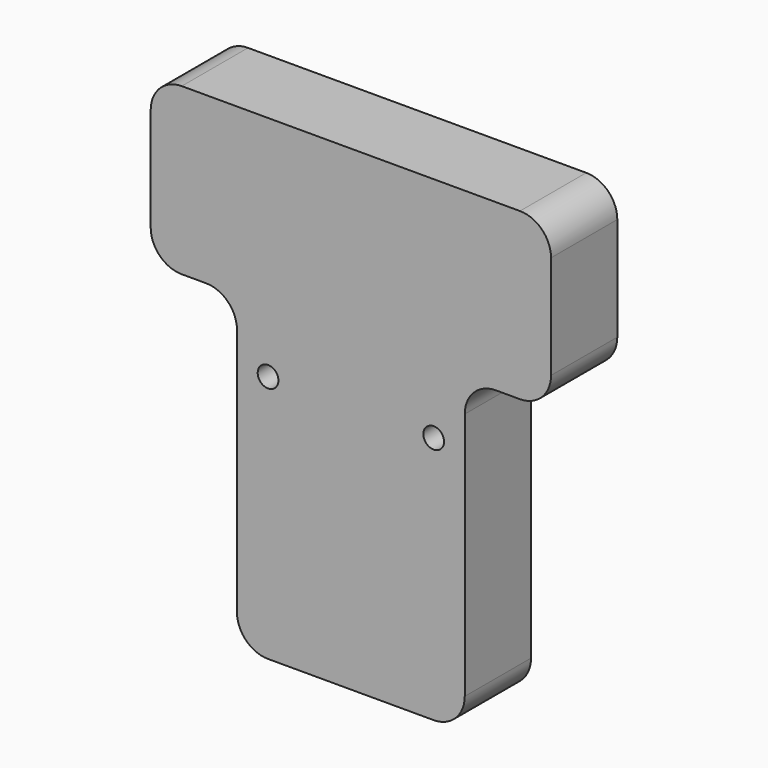
from build123d import *

# Parameters (mm, degrees)
F0_R     = 1.5
F1_DEPTH = 12
F2_R     = 4.5


with BuildPart() as f1:
    # F0 (on Front) → F1 (new body)
    with BuildSketch(Plane.XZ):
        Polygon((-16.5, 9), (-16.5, -36), (16.5, -36), (16.5, 9), (29, 9), (29, 33), (-29, 33), (-29, 9), align=None)
        with Locations((-12, 0)):
            Circle(F0_R, mode=Mode.SUBTRACT)
        with Locations((12, 0)):
            Circle(F0_R, mode=Mode.SUBTRACT)
    extrude(amount=F1_DEPTH)

    # F2
    f2_edges = [f1.edges().sort_by_distance(p)[0] for p in [
        (-29, -6, 33),
        (-29, -6, 9),
        (-16.5, -6, 9),
        (-16.5, -6, -36),
        (16.5, -6, -36),
        (16.5, -6, 9),
        (29, -6, 9),
        (29, -6, 33),
    ]]
    fillet(f2_edges, radius=F2_R)


solid = f1.part
